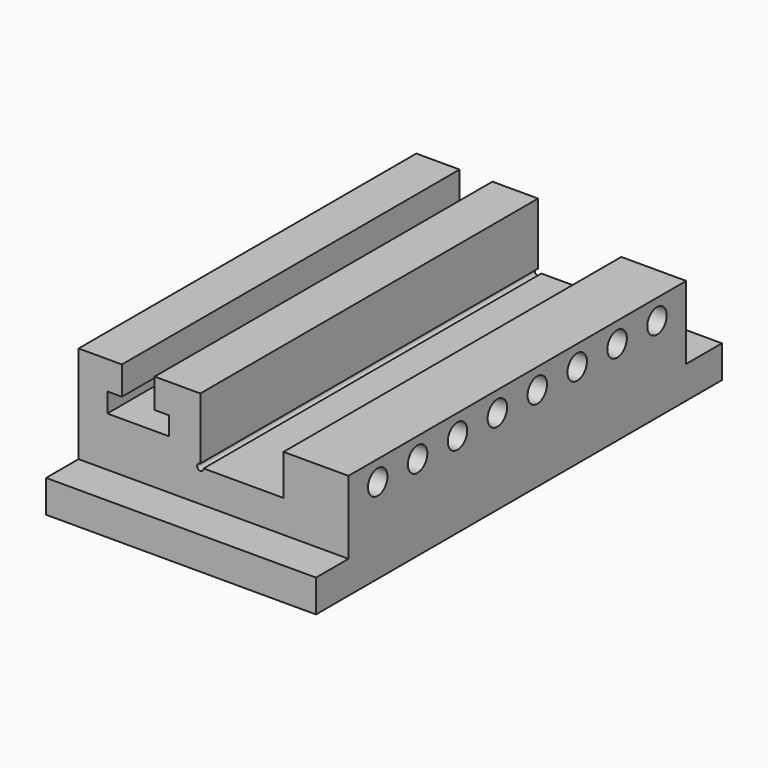
from build123d import *

# Parameters (mm, degrees)
F0_W      = 105.5624
F0_H      = 50.8
F1_DEPTH  = 198.4375
F2_W      = 105.5624
F2_H      = 38.1
F3_DEPTH  = 15.875
F5_DEPTH  = 182.5635
F6_W      = 105.5624
F6_H      = 38.1
F7_DEPTH  = 17.4498
F9_DEPTH  = 25.4
F10_R     = 1.27
F11_DEPTH = 182.5635


with BuildPart() as f1:
    # F0 (on Front) → F1 (new body)
    with BuildSketch(Plane.XZ):
        with Locations((52.7812, 25.4)):
            Rectangle(F0_W, F0_H)
    extrude(amount=-F1_DEPTH)

    # F2 (on face) → F3 (cut)
    with BuildSketch(Plane.XZ):
        with Locations((52.7812, 31.75)):
            Rectangle(F2_W, F2_H)
    extrude(amount=-F3_DEPTH, mode=Mode.SUBTRACT)

    # F4 (on face) → F5 (cut, through all)
    with BuildSketch(Plane.XZ.offset(-15.875)):
        Polygon((29.765625, 50.8), (16.933333, 50.8), (16.933333, 39.6875), (11.244792, 39.6875), (11.244792, 32.0675), (35.454167, 32.0675), (35.454167, 39.290625), (29.765625, 39.290625), align=None)
        Polygon((105.5624, 50.8), (47.625, 50.8), (47.625, 25.4), (80.1624, 25.4), (80.1624, 41.275), (105.5624, 41.275), align=None)
    extrude(amount=-F5_DEPTH, mode=Mode.SUBTRACT)

    # F6 (on face) → F7 (cut)
    with BuildSketch(Plane(origin=(0, 198.4375, 0), x_dir=(-1, 0, 0), z_dir=(0, 1, 0))):
        with Locations((-52.7812, 31.75)):
            Rectangle(F6_W, F6_H)
    extrude(amount=-F7_DEPTH, mode=Mode.SUBTRACT)

    # F8 (on face) → F9 (cut, through all)
    with BuildSketch(Plane.YZ.offset(105.5624)):
        with BuildLine():
            Line((30.16885, 33.3375), (34.93135, 33.3375))
            ThreePointArc((34.93135, 33.3375), (30.16885, 38.1), (25.40635, 33.3375))
            Line((25.40635, 33.3375), (30.16885, 33.3375))
        make_face()
        with BuildLine():
            ThreePointArc((25.40635, 33.3375), (30.16885, 28.575), (34.93135, 33.3375))
            Line((34.93135, 33.3375), (30.16885, 33.3375))
            Line((30.16885, 33.3375), (25.40635, 33.3375))
        make_face()
        with BuildLine():
            ThreePointArc((171.45635, 33.3375), (166.69385, 38.1), (161.93135, 33.3375))
            Line((161.93135, 33.3375), (166.69385, 33.3375))
            Line((166.69385, 33.3375), (171.45635, 33.3375))
        make_face()
        with BuildLine():
            Line((166.69385, 33.3375), (161.93135, 33.3375))
            ThreePointArc((161.93135, 33.3375), (166.69385, 28.575), (171.45635, 33.3375))
            Line((171.45635, 33.3375), (166.69385, 33.3375))
        make_face()
        with BuildLine():
            ThreePointArc((151.952779, 33.3375), (147.190279, 38.1), (142.427779, 33.3375))
            Line((142.427779, 33.3375), (147.190279, 33.3375))
            Line((147.190279, 33.3375), (151.952779, 33.3375))
        make_face()
        with BuildLine():
            Line((147.190279, 33.3375), (142.427779, 33.3375))
            ThreePointArc((142.427779, 33.3375), (147.190279, 28.575), (151.952779, 33.3375))
            Line((151.952779, 33.3375), (147.190279, 33.3375))
        make_face()
        with BuildLine():
            ThreePointArc((132.449207, 33.3375), (127.686707, 38.1), (122.924207, 33.3375))
            Line((122.924207, 33.3375), (127.686707, 33.3375))
            Line((127.686707, 33.3375), (132.449207, 33.3375))
        make_face()
        with BuildLine():
            Line((127.686707, 33.3375), (122.924207, 33.3375))
            ThreePointArc((122.924207, 33.3375), (127.686707, 28.575), (132.449207, 33.3375))
            Line((132.449207, 33.3375), (127.686707, 33.3375))
        make_face()
        with BuildLine():
            ThreePointArc((112.945636, 33.3375), (108.183136, 38.1), (103.420636, 33.3375))
            Line((103.420636, 33.3375), (108.183136, 33.3375))
            Line((108.183136, 33.3375), (112.945636, 33.3375))
        make_face()
        with BuildLine():
            Line((108.183136, 33.3375), (103.420636, 33.3375))
            ThreePointArc((103.420636, 33.3375), (108.183136, 28.575), (112.945636, 33.3375))
            Line((112.945636, 33.3375), (108.183136, 33.3375))
        make_face()
        with BuildLine():
            ThreePointArc((93.442064, 33.3375), (88.679564, 38.1), (83.917064, 33.3375))
            Line((83.917064, 33.3375), (88.679564, 33.3375))
            Line((88.679564, 33.3375), (93.442064, 33.3375))
        make_face()
        with BuildLine():
            Line((88.679564, 33.3375), (83.917064, 33.3375))
            ThreePointArc((83.917064, 33.3375), (88.679564, 28.575), (93.442064, 33.3375))
            Line((93.442064, 33.3375), (88.679564, 33.3375))
        make_face()
        with BuildLine():
            ThreePointArc((73.938493, 33.3375), (69.175993, 38.1), (64.413493, 33.3375))
            Line((64.413493, 33.3375), (69.175993, 33.3375))
            Line((69.175993, 33.3375), (73.938493, 33.3375))
        make_face()
        with BuildLine():
            Line((69.175993, 33.3375), (64.413493, 33.3375))
            ThreePointArc((64.413493, 33.3375), (69.175993, 28.575), (73.938493, 33.3375))
            Line((73.938493, 33.3375), (69.175993, 33.3375))
        make_face()
        with BuildLine():
            ThreePointArc((54.434921, 33.3375), (49.672421, 38.1), (44.909921, 33.3375))
            Line((44.909921, 33.3375), (49.672421, 33.3375))
            Line((49.672421, 33.3375), (54.434921, 33.3375))
        make_face()
        with BuildLine():
            Line((49.672421, 33.3375), (44.909921, 33.3375))
            ThreePointArc((44.909921, 33.3375), (49.672421, 28.575), (54.434921, 33.3375))
            Line((54.434921, 33.3375), (49.672421, 33.3375))
        make_face()
    extrude(amount=-F9_DEPTH, mode=Mode.SUBTRACT)

    # F10 (on face) → F11 (cut, through all)
    with BuildSketch(Plane.XZ.offset(-15.875)):
        with Locations((47.625, 25.4)):
            Circle(F10_R)
    extrude(amount=-F11_DEPTH, mode=Mode.SUBTRACT)


solid = f1.part
